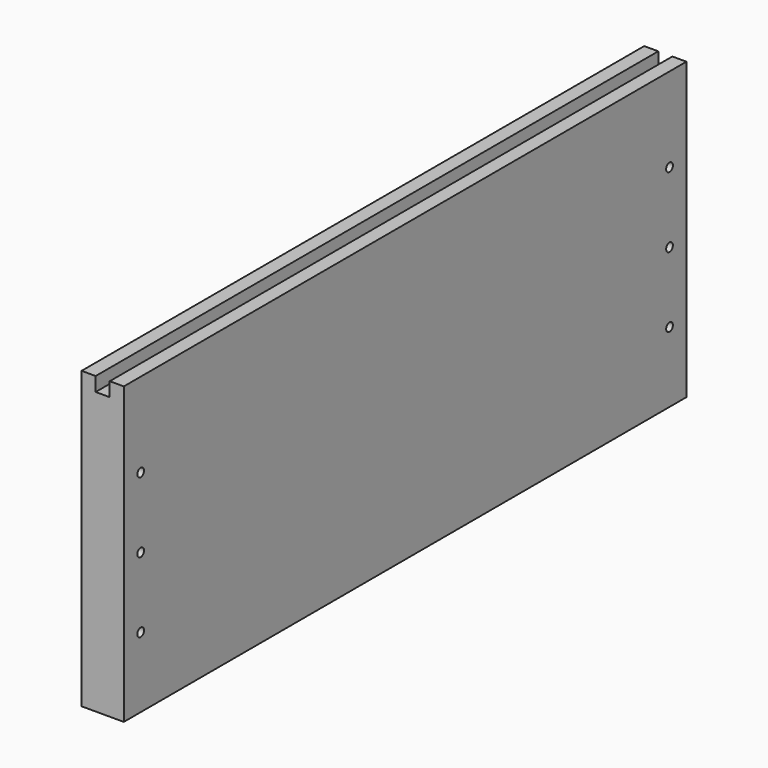
from build123d import *

# Parameters (mm, degrees)
F0_W     = 500
F0_H     = 200
F0_R     = 3
F1_DEPTH = 30
F2_W     = 10
F2_H     = 10
F3_DEPTH = 500
F4_W     = 10
F4_H     = 10
F5_DEPTH = 500


with BuildPart() as f1:
    # F0 (on Right) → F1 (new body)
    with BuildSketch(Plane.YZ):
        Rectangle(F0_W, F0_H)
        with Locations((-235, -50)):
            Circle(F0_R, mode=Mode.SUBTRACT)
        with Locations((235, -50)):
            Circle(F0_R, mode=Mode.SUBTRACT)
        with Locations((-235, 0)):
            Circle(F0_R, mode=Mode.SUBTRACT)
        with Locations((-235, 50)):
            Circle(F0_R, mode=Mode.SUBTRACT)
        with Locations((235, 0)):
            Circle(F0_R, mode=Mode.SUBTRACT)
        with Locations((235, 50)):
            Circle(F0_R, mode=Mode.SUBTRACT)
    extrude(amount=F1_DEPTH)

    # F2 (on face) → F3 (join)
    with BuildSketch(Plane.XZ.offset(250)):
        with Locations((5, 105)):
            Rectangle(F2_W, F2_H)
    extrude(amount=-F3_DEPTH)

    # F4 (on face) → F5 (join)
    with BuildSketch(Plane.XZ.offset(250)):
        with Locations((25, 105)):
            Rectangle(F4_W, F4_H)
    extrude(amount=-F5_DEPTH)


solid = f1.part
